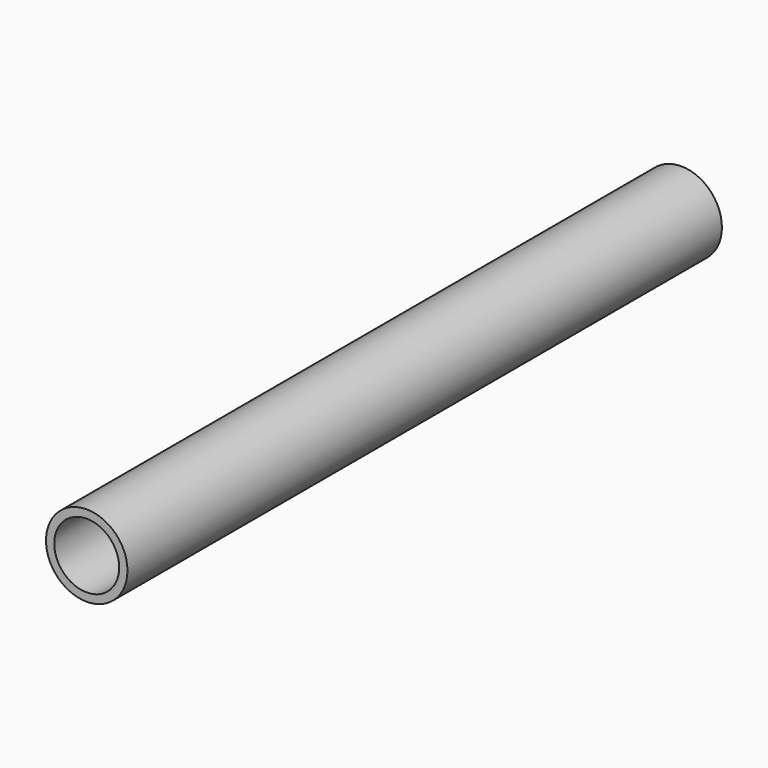
from build123d import *

# Parameters (mm, degrees)
F0_R     = 16.7005
F0_R_2   = 13.3223
F1_DEPTH = 152.4
F3_R     = 28.470245
F4_DEPTH = 25.4


with BuildPart() as f1:
    # F0 (on Front) → F1 (new body, symmetric)
    with BuildSketch(Plane.XZ):
        Circle(F0_R)
        Circle(F0_R_2, mode=Mode.SUBTRACT)
    extrude(amount=F1_DEPTH, both=True)


with BuildPart() as f4:
    # F3 (on Right) → F4 (new body)
    with BuildSketch(Plane.YZ):
        with Locations((44.697168, 50.904491)):
            Circle(F3_R)
    extrude(amount=F4_DEPTH)


solid = f1.part
